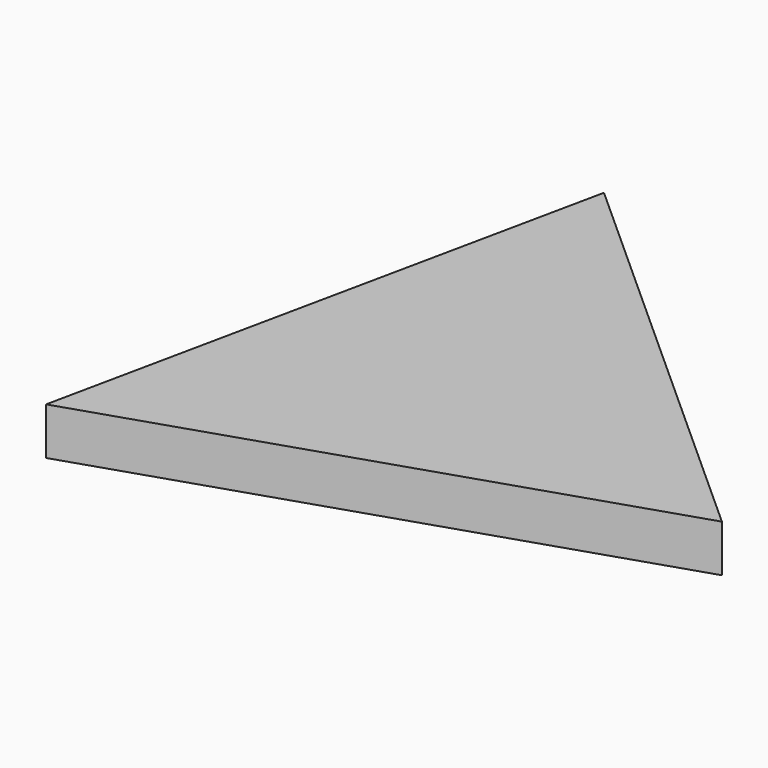
from build123d import *

# Parameters (mm, degrees)
F2_DEPTH = 25.4


with BuildPart() as f2:
    # F1 (on face) → F2 (new body)
    with BuildSketch(Plane.XY):
        Polygon((-144.2170280104, -130.2964613739), (144.2170280104, -36.2310185131), (-81.4630631357, 166.527479887), align=None)
        Polygon((25.3478623927, -20.5128900707), (-71.462854743, -20.5128900707), (-71.462854743, 26.7615746707), (25.3478623927, 26.7615746707), (25.3478623927, 23.4350077808), (25.3478623927, -11.3784484565), align=None, mode=Mode.SUBTRACT)
        Polygon((-71.462854743, 26.7615746707), (-71.462854743, -20.5128900707), (25.3478623927, -20.5128900707), (25.3478623927, -11.3784484565), (25.3478623927, 23.4350077808), (25.3478623927, 26.7615746707), align=None)
    extrude(amount=F2_DEPTH)


solid = f2.part
